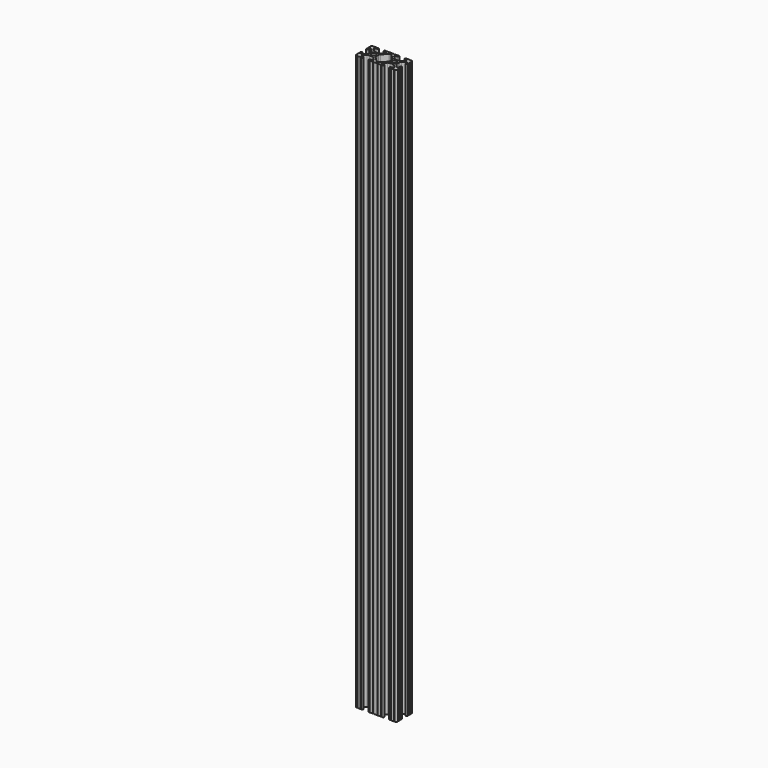
from build123d import *

# Parameters (mm, degrees)
F0_R     = 2.6035
F1_DEPTH = 706


with BuildPart() as f1:
    # F0 (on Top) → F1 (new body)
    with BuildSketch(Plane.XY):
        with BuildLine():
            Line((22.503444, 3.340172), (22.528844, 3.340172))
            ThreePointArc((22.528844, 3.340172), (24.019567, 3.95765), (24.637044, 5.448372))
            Line((24.637044, 5.448372), (24.637044, 5.473772))
            ThreePointArc((24.637044, 5.473772), (24.129044, 5.981772), (24.637044, 6.489772))
            Line((24.637044, 6.489772), (24.637044, 9.715572))
            ThreePointArc((24.637044, 9.715572), (24.129044, 10.223572), (24.637044, 10.731572))
            Line((24.637044, 10.731572), (24.637044, 11.684072))
            ThreePointArc((24.637044, 11.684072), (23.532144, 12.788972), (22.427244, 11.684072))
            Line((22.427244, 11.684072), (22.427244, 9.670089))
            ThreePointArc((22.427244, 9.670089), (21.773249, 8.691316), (20.618708, 8.920968))
            Line((20.618708, 8.920968), (17.384147, 12.155529))
            ThreePointArc((17.384147, 12.155529), (16.695894, 13.185573), (16.454211, 14.400593))
            Line((16.454211, 14.400593), (16.454211, 17.679752))
            ThreePointArc((16.454211, 17.679752), (16.695894, 18.894772), (17.384147, 19.924816))
            Line((17.384147, 19.924816), (20.618708, 23.159377))
            ThreePointArc((20.618708, 23.159377), (21.773249, 23.389029), (22.427244, 22.410256))
            Line((22.427244, 22.410256), (22.427244, 20.396272))
            ThreePointArc((22.427244, 20.396272), (23.532144, 19.291372), (24.637044, 20.396272))
            Line((24.637044, 20.396272), (24.637044, 21.348772))
            ThreePointArc((24.637044, 21.348772), (24.129044, 21.856772), (24.637044, 22.364772))
            Line((24.637044, 22.364772), (24.637044, 25.590572))
            ThreePointArc((24.637044, 25.590572), (24.129044, 26.098572), (24.637044, 26.606572))
            Line((24.637044, 26.606572), (24.637044, 26.631972))
            ThreePointArc((24.637044, 26.631972), (24.019567, 28.122695), (22.528844, 28.740172))
            Line((22.528844, 28.740172), (22.503444, 28.740172))
            ThreePointArc((22.503444, 28.740172), (21.995444, 28.232172), (21.487444, 28.740172))
            Line((21.487444, 28.740172), (18.261644, 28.740172))
            ThreePointArc((18.261644, 28.740172), (17.753644, 28.232172), (17.245644, 28.740172))
            Line((17.245644, 28.740172), (16.293144, 28.740172))
            ThreePointArc((16.293144, 28.740172), (15.188244, 27.635272), (16.293144, 26.530372))
            Line((16.293144, 26.530372), (18.307128, 26.530372))
            ThreePointArc((18.307128, 26.530372), (19.285901, 25.876377), (19.056248, 24.721836))
            Line((19.056248, 24.721836), (15.821688, 21.487276))
            ThreePointArc((15.821688, 21.487276), (14.791644, 20.799022), (13.576624, 20.55734))
            Line((13.576624, 20.55734), (10.297464, 20.55734))
            ThreePointArc((10.297464, 20.55734), (9.082444, 20.799022), (8.0524, 21.487276))
            Line((8.0524, 21.487276), (4.81784, 24.721836))
            ThreePointArc((4.81784, 24.721836), (4.588187, 25.876377), (5.56696, 26.530372))
            Line((5.56696, 26.530372), (7.580944, 26.530372))
            ThreePointArc((7.580944, 26.530372), (8.685844, 27.635272), (7.580944, 28.740172))
            Line((7.580944, 28.740172), (6.628444, 28.740172))
            ThreePointArc((6.628444, 28.740172), (6.120444, 28.232172), (5.612444, 28.740172))
            Line((5.612444, 28.740172), (2.386644, 28.740172))
            ThreePointArc((2.386644, 28.740172), (1.878644, 28.232172), (1.370644, 28.740172))
            Line((1.370644, 28.740172), (-2.896556, 28.740172))
            ThreePointArc((-2.896556, 28.740172), (-3.404556, 28.232172), (-3.912556, 28.740172))
            Line((-3.912556, 28.740172), (-7.138356, 28.740172))
            ThreePointArc((-7.138356, 28.740172), (-7.646356, 28.232172), (-8.154356, 28.740172))
            Line((-8.154356, 28.740172), (-9.106856, 28.740172))
            ThreePointArc((-9.106856, 28.740172), (-10.211756, 27.635272), (-9.106856, 26.530372))
            Line((-9.106856, 26.530372), (-7.092872, 26.530372))
            ThreePointArc((-7.092872, 26.530372), (-6.114099, 25.876377), (-6.343752, 24.721836))
            Line((-6.343752, 24.721836), (-9.578312, 21.487276))
            ThreePointArc((-9.578312, 21.487276), (-10.608356, 20.799022), (-11.823376, 20.55734))
            Line((-11.823376, 20.55734), (-15.102536, 20.55734))
            ThreePointArc((-15.102536, 20.55734), (-16.317556, 20.799022), (-17.3476, 21.487276))
            Line((-17.3476, 21.487276), (-20.58216, 24.721836))
            ThreePointArc((-20.58216, 24.721836), (-20.811813, 25.876377), (-19.83304, 26.530372))
            Line((-19.83304, 26.530372), (-17.819056, 26.530372))
            ThreePointArc((-17.819056, 26.530372), (-16.714156, 27.635272), (-17.819056, 28.740172))
            Line((-17.819056, 28.740172), (-18.771556, 28.740172))
            ThreePointArc((-18.771556, 28.740172), (-19.279556, 28.232172), (-19.787556, 28.740172))
            Line((-19.787556, 28.740172), (-23.013356, 28.740172))
            ThreePointArc((-23.013356, 28.740172), (-23.521356, 28.232172), (-24.029356, 28.740172))
            Line((-24.029356, 28.740172), (-24.054756, 28.740172))
            ThreePointArc((-24.054756, 28.740172), (-25.545478, 28.122695), (-26.162956, 26.631972))
            Line((-26.162956, 26.631972), (-26.162956, 26.606572))
            ThreePointArc((-26.162956, 26.606572), (-25.654956, 26.098572), (-26.162956, 25.590572))
            Line((-26.162956, 25.590572), (-26.162956, 22.364772))
            ThreePointArc((-26.162956, 22.364772), (-25.654956, 21.856772), (-26.162956, 21.348772))
            Line((-26.162956, 21.348772), (-26.162956, 20.396272))
            ThreePointArc((-26.162956, 20.396272), (-25.058056, 19.291372), (-23.953156, 20.396272))
            Line((-23.953156, 20.396272), (-23.953156, 22.410256))
            ThreePointArc((-23.953156, 22.410256), (-23.299161, 23.389029), (-22.144619, 23.159377))
            Line((-22.144619, 23.159377), (-18.910059, 19.924816))
            ThreePointArc((-18.910059, 19.924816), (-18.221805, 18.894772), (-17.980123, 17.679752))
            Line((-17.980123, 17.679752), (-17.980123, 14.400593))
            ThreePointArc((-17.980123, 14.400593), (-18.221805, 13.185573), (-18.910059, 12.155529))
            Line((-18.910059, 12.155529), (-22.144619, 8.920968))
            ThreePointArc((-22.144619, 8.920968), (-23.299161, 8.691316), (-23.953156, 9.670089))
            Line((-23.953156, 9.670089), (-23.953156, 11.684072))
            ThreePointArc((-23.953156, 11.684072), (-25.058056, 12.788972), (-26.162956, 11.684072))
            Line((-26.162956, 11.684072), (-26.162956, 10.731572))
            ThreePointArc((-26.162956, 10.731572), (-25.654956, 10.223572), (-26.162956, 9.715572))
            Line((-26.162956, 9.715572), (-26.162956, 6.489772))
            ThreePointArc((-26.162956, 6.489772), (-25.654956, 5.981772), (-26.162956, 5.473772))
            Line((-26.162956, 5.473772), (-26.162956, 5.448372))
            ThreePointArc((-26.162956, 5.448372), (-25.545478, 3.95765), (-24.054756, 3.340172))
            Line((-24.054756, 3.340172), (-24.029356, 3.340172))
            ThreePointArc((-24.029356, 3.340172), (-23.521356, 3.848172), (-23.013356, 3.340172))
            Line((-23.013356, 3.340172), (-19.787556, 3.340172))
            ThreePointArc((-19.787556, 3.340172), (-19.279556, 3.848172), (-18.771556, 3.340172))
            Line((-18.771556, 3.340172), (-17.819056, 3.340172))
            ThreePointArc((-17.819056, 3.340172), (-16.714156, 4.445072), (-17.819056, 5.549972))
            Line((-17.819056, 5.549972), (-19.83304, 5.549972))
            ThreePointArc((-19.83304, 5.549972), (-20.811813, 6.203968), (-20.58216, 7.358509))
            Line((-20.58216, 7.358509), (-17.3476, 10.593069))
            ThreePointArc((-17.3476, 10.593069), (-16.317556, 11.281323), (-15.102536, 11.523005))
            Line((-15.102536, 11.523005), (-11.823376, 11.523005))
            ThreePointArc((-11.823376, 11.523005), (-10.608356, 11.281323), (-9.578312, 10.593069))
            Line((-9.578312, 10.593069), (-6.343752, 7.358509))
            ThreePointArc((-6.343752, 7.358509), (-6.114099, 6.203968), (-7.092872, 5.549972))
            Line((-7.092872, 5.549972), (-9.106856, 5.549972))
            ThreePointArc((-9.106856, 5.549972), (-10.211756, 4.445072), (-9.106856, 3.340172))
            Line((-9.106856, 3.340172), (-8.154356, 3.340172))
            ThreePointArc((-8.154356, 3.340172), (-7.646356, 3.848172), (-7.138356, 3.340172))
            Line((-7.138356, 3.340172), (-3.912556, 3.340172))
            ThreePointArc((-3.912556, 3.340172), (-3.404556, 3.848172), (-2.896556, 3.340172))
            Line((-2.896556, 3.340172), (1.370644, 3.340172))
            ThreePointArc((1.370644, 3.340172), (1.878644, 3.848172), (2.386644, 3.340172))
            Line((2.386644, 3.340172), (5.612444, 3.340172))
            ThreePointArc((5.612444, 3.340172), (6.120444, 3.848172), (6.628444, 3.340172))
            Line((6.628444, 3.340172), (7.580944, 3.340172))
            ThreePointArc((7.580944, 3.340172), (8.685844, 4.445072), (7.580944, 5.549972))
            Line((7.580944, 5.549972), (5.56696, 5.549972))
            ThreePointArc((5.56696, 5.549972), (4.588187, 6.203968), (4.81784, 7.358509))
            Line((4.81784, 7.358509), (8.0524, 10.593069))
            ThreePointArc((8.0524, 10.593069), (9.082444, 11.281323), (10.297464, 11.523005))
            Line((10.297464, 11.523005), (13.576624, 11.523005))
            ThreePointArc((13.576624, 11.523005), (14.791644, 11.281323), (15.821688, 10.593069))
            Line((15.821688, 10.593069), (19.056248, 7.358509))
            ThreePointArc((19.056248, 7.358509), (19.285901, 6.203968), (18.307128, 5.549972))
            Line((18.307128, 5.549972), (16.293144, 5.549972))
            ThreePointArc((16.293144, 5.549972), (15.188244, 4.445072), (16.293144, 3.340172))
            Line((16.293144, 3.340172), (17.245644, 3.340172))
            ThreePointArc((17.245644, 3.340172), (17.753644, 3.848172), (18.261644, 3.340172))
            Line((18.261644, 3.340172), (21.487444, 3.340172))
            ThreePointArc((21.487444, 3.340172), (21.995444, 3.848172), (22.503444, 3.340172))
        make_face()
        with Locations((-13.462956, 16.040172)):
            Circle(F0_R, mode=Mode.SUBTRACT)
        with BuildLine():
            Line((0.802622, 25.611924), (6.489941, 19.924606))
            ThreePointArc((6.489941, 19.924606), (7.178195, 18.894562), (7.419877, 17.679542))
            Line((7.419877, 17.679542), (7.419877, 14.400803))
            ThreePointArc((7.419877, 14.400803), (7.178195, 13.185783), (6.489941, 12.155739))
            Line((6.489941, 12.155739), (0.802622, 6.468421))
            ThreePointArc((0.802622, 6.468421), (0.291721, 6.127047), (-0.310929, 6.007172))
            Line((-0.310929, 6.007172), (-1.214982, 6.007172))
            ThreePointArc((-1.214982, 6.007172), (-1.817632, 6.127047), (-2.328534, 6.468421))
            Line((-2.328534, 6.468421), (-8.015853, 12.155739))
            ThreePointArc((-8.015853, 12.155739), (-8.704106, 13.185783), (-8.945789, 14.400803))
            Line((-8.945789, 14.400803), (-8.945789, 17.679542))
            ThreePointArc((-8.945789, 17.679542), (-8.704106, 18.894562), (-8.015853, 19.924606))
            Line((-8.015853, 19.924606), (-2.328534, 25.611924))
            ThreePointArc((-2.328534, 25.611924), (-1.817632, 25.953298), (-1.214982, 26.073172))
            Line((-1.214982, 26.073172), (-0.310929, 26.073172))
            ThreePointArc((-0.310929, 26.073172), (0.291721, 25.953298), (0.802622, 25.611924))
        make_face(mode=Mode.SUBTRACT)
        with Locations((11.937044, 16.040172)):
            Circle(F0_R, mode=Mode.SUBTRACT)
    extrude(amount=F1_DEPTH)


solid = f1.part
